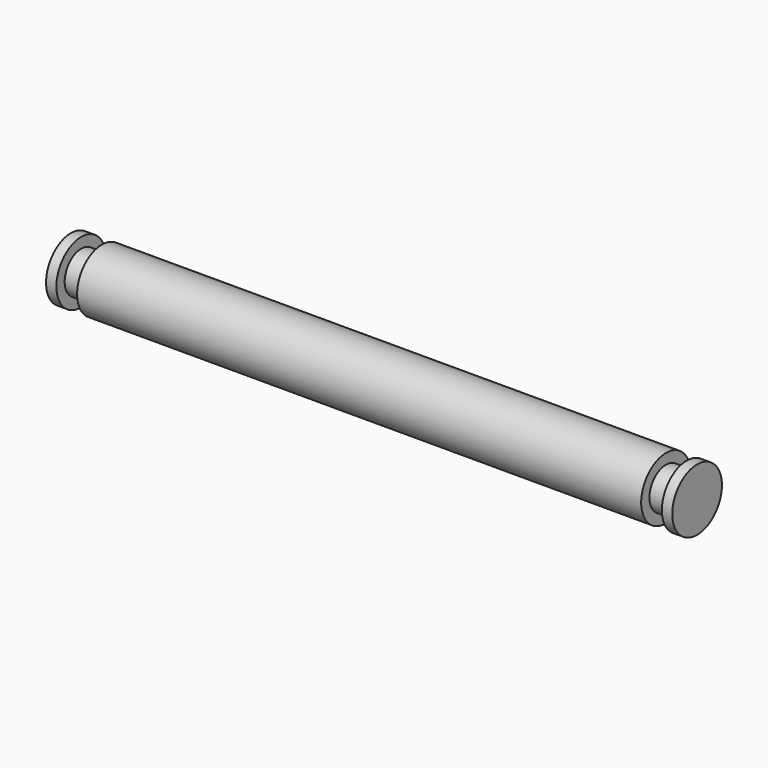
from build123d import *

# Parameters (mm, degrees)
SKETCH_R     = 3
PAD_DEPTH    = 54.5
SKETCH001_R  = 2
PAD001_DEPTH = 2
SKETCH002_R  = 3
PAD002_DEPTH = 1
SKETCH003_R  = 2
PAD003_DEPTH = 2
SKETCH004_R  = 3
PAD004_DEPTH = 1


with BuildPart() as part:
    # Sketch → Pad (new body)
    with BuildSketch(Plane.YZ):
        Circle(SKETCH_R)
    extrude(amount=PAD_DEPTH)

    # Sketch001 (on Face3 of Pad) → Pad001 (join)
    with BuildSketch(Plane.YZ.offset(54.5)):
        Circle(SKETCH001_R)
    extrude(amount=PAD001_DEPTH)

    # Sketch002 (on Face5 of Pad001) → Pad002 (join)
    with BuildSketch(Plane.YZ.offset(56.5)):
        Circle(SKETCH002_R)
    extrude(amount=PAD002_DEPTH)

    # Sketch003 (on Face7 of Pad002) → Pad003 (join)
    with BuildSketch(Plane(origin=(0, 0, 0), x_dir=(0, 1, 0), z_dir=(-1, 0, 0))):
        Circle(SKETCH003_R)
    extrude(amount=PAD003_DEPTH)

    # Sketch004 (on Face9 of Pad003) → Pad004 (join)
    with BuildSketch(Plane(origin=(-2, 0, 0), x_dir=(0, 1, 0), z_dir=(-1, 0, 0))):
        Circle(SKETCH004_R)
    extrude(amount=PAD004_DEPTH)


solid = part.part
